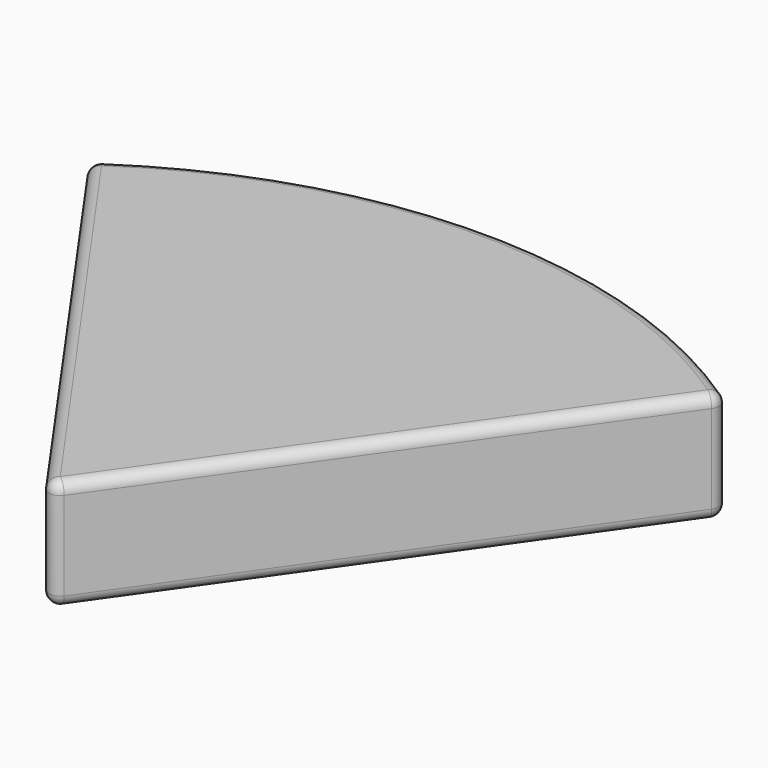
from build123d import *

# Parameters (mm, degrees)
F1_DEPTH = 10
F2_R     = 2


with BuildPart() as f1:
    # F0 (on Top) → F1 (new body, symmetric)
    with BuildSketch(Plane.XY):
        with BuildLine():
            Line((-57.567954, 28.408206), (0, -53.359334))
            Line((0, -53.359334), (57.567954, 28.408206))
            ThreePointArc((57.567954, 28.408206), (0, 46.640666), (-57.567954, 28.408206))
        make_face()
    extrude(amount=F1_DEPTH, both=True)

    # F2
    f2_edges = [f1.edges().sort_by_distance(p)[0] for p in [
        (-28.783977, -12.475564, 10),
        (0, 46.640666, 10),
        (28.783977, -12.475564, 10),
        (0, -53.359334, 0),
        (28.783977, -12.475564, -10),
        (-28.783977, -12.475564, -10),
        (-57.567954, 28.408206, 0),
        (0, 46.640666, -10),
        (57.567954, 28.408206, 0),
    ]]
    fillet(f2_edges, radius=F2_R)


solid = f1.part
